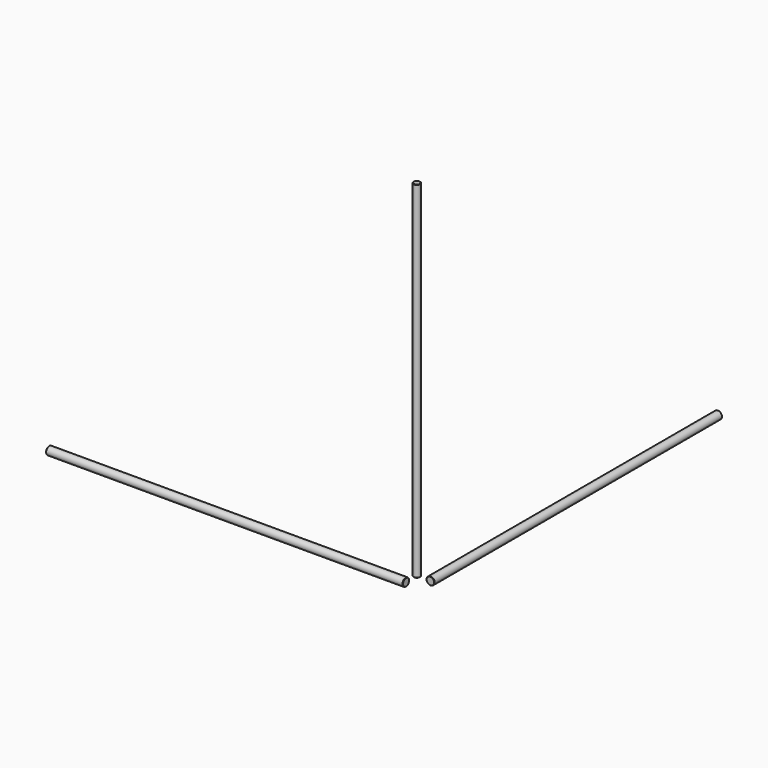
from build123d import *

# Parameters (mm, degrees)
F0_R     = 5
F1_DEPTH = 514
F2_SIZE  = 0.5
F3_R     = 6
F4_DEPTH = 534
F5_SIZE  = 0.5
F6_R     = 6
F7_DEPTH = 530
F8_SIZE  = 0.5


with BuildPart() as f1:
    # F0 (on Top) → F1 (new body)
    with BuildSketch(Plane.XY):
        Circle(F0_R)
    extrude(amount=F1_DEPTH)

    # F2
    f2_edges = [f1.edges().sort_by_distance(p)[0] for p in [
        (-5, 0, 514),
        (-5, 0, 0),
    ]]
    chamfer(f2_edges, length=F2_SIZE)


with BuildPart() as f4:
    # F3 (on Front) → F4 (new body)
    with BuildSketch(Plane.XZ):
        with Locations((20, 0)):
            Circle(F3_R)
    extrude(amount=-F4_DEPTH)

    # F5
    f5_edges = [f4.edges().sort_by_distance(p)[0] for p in [
        (14, 0, 0),
        (14, 534, 0),
    ]]
    chamfer(f5_edges, length=F5_SIZE)


with BuildPart() as f7:
    # F6 (on Right) → F7 (new body)
    with BuildSketch(Plane.YZ):
        with Locations((-20, 0)):
            Circle(F6_R)
    extrude(amount=-F7_DEPTH)

    # F8
    f8_edges = [f7.edges().sort_by_distance(p)[0] for p in [
        (0, -26, 0),
        (-530, -26, 0),
    ]]
    chamfer(f8_edges, length=F8_SIZE)


solid = Compound([f1.part, f4.part, f7.part])
